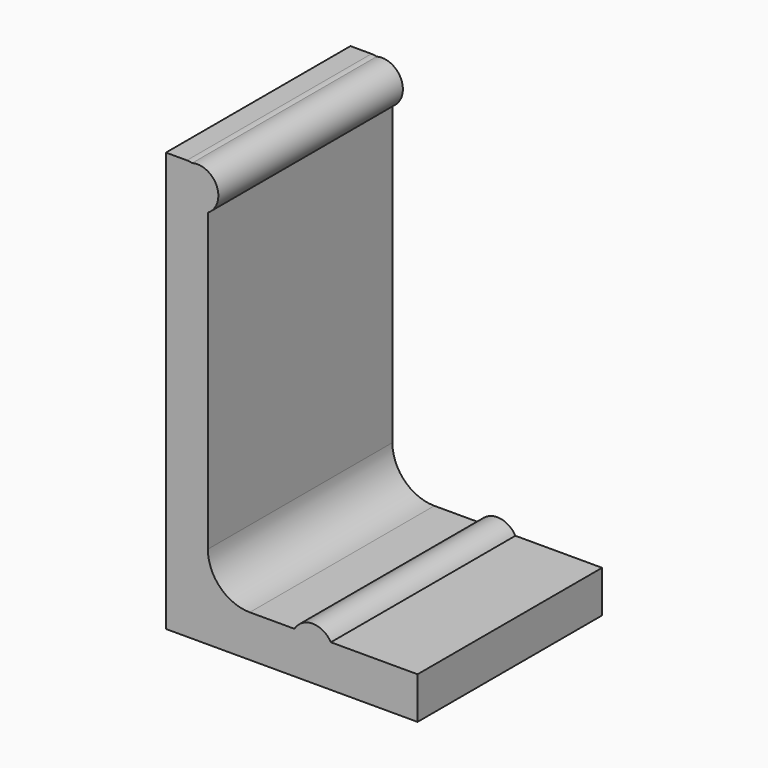
from build123d import *

# Parameters (mm, degrees)
F1_DEPTH = 34.925
F2_R     = 3.175
F3_DEPTH = 34.925


with BuildPart() as f1:
    # F0 (on Front) → F1 (new body)
    with BuildSketch(Plane.XZ):
        with BuildLine():
            Line((3.175, 63.5), (0, 63.5))
            Line((0, 63.5), (0, 0))
            Line((0, 0), (38.1, 0))
            Line((38.1, 0), (38.1, 6.35))
            Line((38.1, 6.35), (12.7, 6.35))
            ThreePointArc((12.7, 6.35), (8.209872, 8.209872), (6.35, 12.7))
            Line((6.35, 12.7), (6.35, 60.325))
            ThreePointArc((6.35, 60.325), (5.420064, 62.570064), (3.175, 63.5))
        make_face()
    extrude(amount=F1_DEPTH)

    # F2 (on face) → F3 (join, through all)
    with BuildSketch(Plane.XZ.offset(34.925)):
        with Locations((4.7625, 60.325)):
            Circle(F2_R)
        with Locations((22.225, 4.7625)):
            Circle(F2_R)
    extrude(amount=-F3_DEPTH)


solid = f1.part
